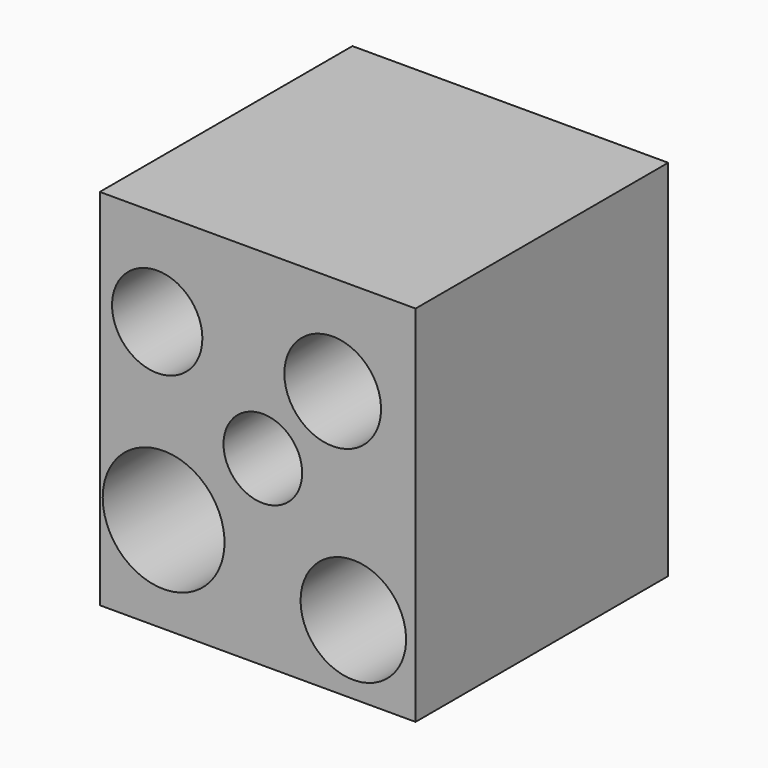
from build123d import *

# Parameters (mm, degrees)
F0_W     = 25.4
F0_H     = 29.27313
F1_DEPTH = 25.4
F2_R     = 3.632204
F3_DEPTH = 30.226
F4_R     = 3.164391
F4_R_2   = 4.898125
F4_R_3   = 4.24451
F4_R_4   = 3.887819
F5_DEPTH = 25.401


with BuildPart() as f1:
    # F0 (on Front) → F1 (new body)
    with BuildSketch(Plane.XZ):
        with Locations((-0.414785, -0.999168)):
            Rectangle(F0_W, F0_H)
    extrude(amount=F1_DEPTH)

    # F2 (on face) → F3 (cut)
    with BuildSketch(Plane.XZ.offset(25.4)):
        with Locations((-8.4971, 5.941204)):
            Circle(F2_R)
    extrude(amount=-F3_DEPTH, mode=Mode.SUBTRACT)

    # F4 (on face) → F5 (cut, through all)
    with BuildSketch(Plane(origin=(0, 0, 0), x_dir=(-1, 0, 0), z_dir=(0, 1, 0))):
        with Locations((0, -0.979845)):
            Circle(F4_R)
        with Locations((7.981689, -7.926342)):
            Circle(F4_R_2)
        with Locations((-7.278915, -10.046526)):
            Circle(F4_R_3)
        with Locations((-5.619815, 5.608665)):
            Circle(F4_R_4)
    extrude(amount=-F5_DEPTH, mode=Mode.SUBTRACT)


solid = f1.part
